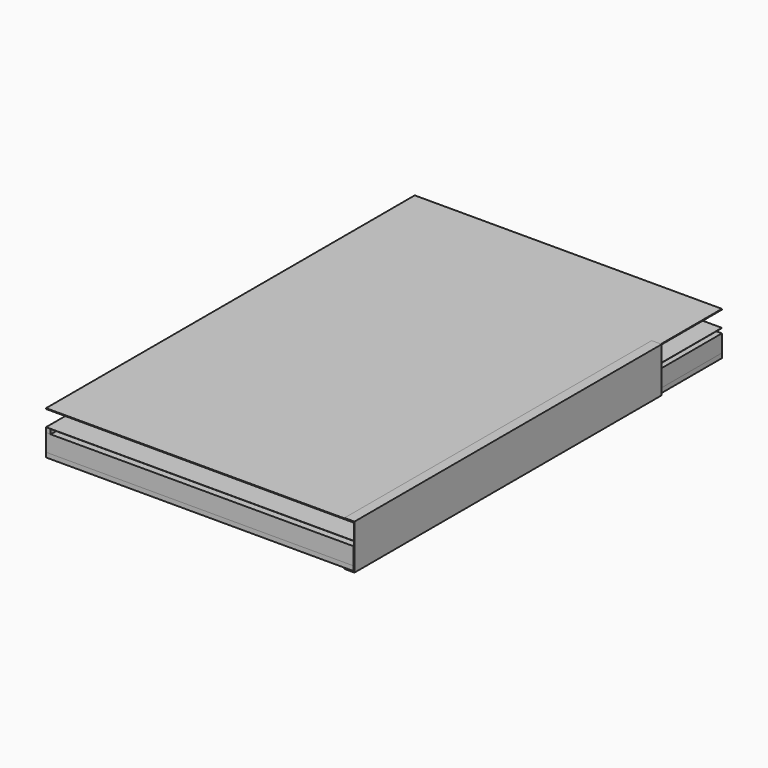
from build123d import *

# Parameters (mm, degrees)
F0_W      = 800
F0_H      = 1200
F1_DEPTH  = 12
F2_DEPTH  = 45
F3_W      = 12
F3_H      = 12
F4_DEPTH  = 1200
F5_W      = 800
F5_H      = 1200
F6_DEPTH  = 0.6
F8_DEPTH  = 1000
F9_W      = 800
F9_H      = 1200
F10_DEPTH = 2


with BuildPart() as f1:
    # F0 (on Top) → F1 (new body)
    with BuildSketch(Plane.XY):
        Rectangle(F0_W, F0_H)
    extrude(amount=F1_DEPTH)


with BuildPart() as f2:
    # F2 (new): a face of the model
    f2_faces = [f1.part.faces().sort_by_distance(p)[0] for p in [
        (0, 0, 12),
    ]]
    extrude(f2_faces, amount=F2_DEPTH)


with BuildPart() as f4:
    # F3 (on face) → F4 (new body, through all)
    with BuildSketch(Plane.XZ.offset(600)):
        with Locations((-394, 63)):
            Rectangle(F3_W, F3_H)
    extrude(amount=-F4_DEPTH)


with BuildPart() as f6:
    # F5 (on face) → F6 (new body)
    with BuildSketch(Plane.XY.offset(69)):
        Rectangle(F5_W, F5_H)
    extrude(amount=F6_DEPTH)


with BuildPart() as f8:
    # F7 (on face) → F8 (new body)
    with BuildSketch(Plane.XZ.offset(600)):
        Polygon((377.0572900772, 114.1687498512), (377.0572900772, 113.1687498512), (402.0572900772, 113.1687498512), (402.0572900772, -1.8312501488), (377.0572900772, -1.8312501488), (377.0572900772, -2.8312501488), (403.0572900772, -2.8312501488), (403.0572900772, 114.1687498512), align=None)
    extrude(amount=-F8_DEPTH)


with BuildPart() as f10:
    # F9 (on face) → F10 (new body)
    with BuildSketch(Plane(origin=(0, 0, 113.1687498512), x_dir=(1, 0, 0), z_dir=(0, 0, -1))):
        Rectangle(F9_W, F9_H)
    extrude(amount=F10_DEPTH)


solid = Compound([f1.part, f2.part, f4.part, f6.part, f8.part, f10.part])
